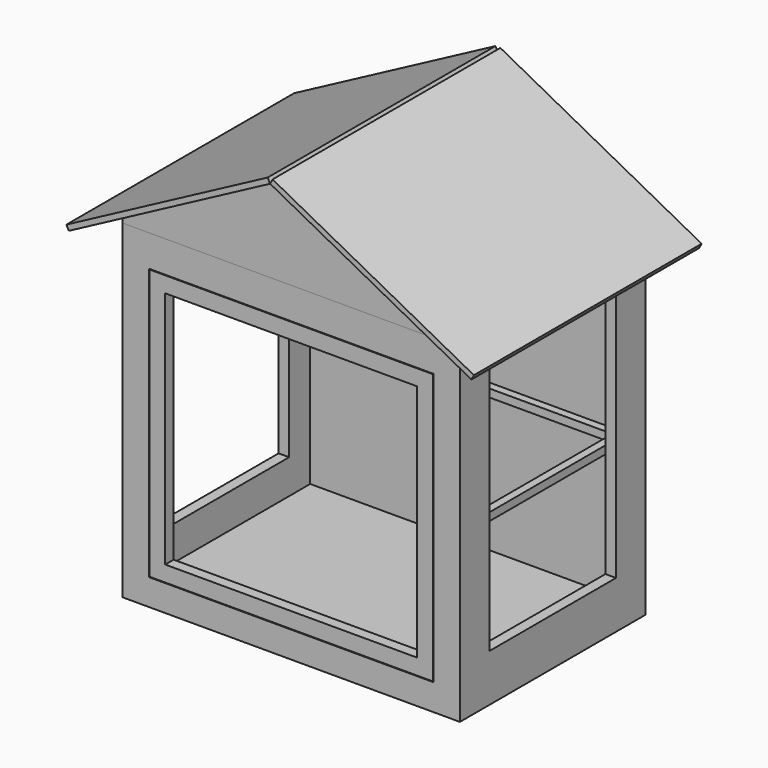
from build123d import *

# Parameters (mm, degrees)
F0_W      = 640
F0_H      = 440
F0_W_2    = 600
F0_H_2    = 400
F1_DEPTH  = 600
F2_W      = 640
F2_H      = 440
F3_DEPTH  = 20
F4_W      = 300
F4_H      = 485
F5_DEPTH  = 20
F6_W      = 540
F6_H      = 515
F7_DEPTH  = 20
F8_W      = 300
F8_H      = 485
F9_DEPTH  = 640.001
F10_W     = 640
F10_H     = 440
F11_DEPTH = 25
F13_W     = 15
F13_H     = 15
F14_DEPTH = 400
F15_W     = 415
F15_H     = 15
F16_DEPTH = 15
F18_DEPTH = 15
F20_DEPTH = 15
F21_W     = 432.3534186399
F21_H     = 540
F23_DEPTH = 10
F22_W     = 432.3534186399
F22_H     = 540
F24_DEPTH = 10
F25_W     = 538
F25_H     = 513
F25_W_2   = 478
F25_H_2   = 453
F26_DEPTH = 20


with BuildPart() as f1:
    # F0 (on Top) → F1 (new body)
    with BuildSketch(Plane.XY):
        Rectangle(F0_W, F0_H)
        Rectangle(F0_W_2, F0_H_2, mode=Mode.SUBTRACT)
    extrude(amount=F1_DEPTH)

    # F4 (on face) → F5 (cut)
    with BuildSketch(Plane.YZ.offset(320)):
        with Locations((0, 307.5)):
            Rectangle(F4_W, F4_H)
    extrude(amount=-F5_DEPTH, mode=Mode.SUBTRACT)

    # F6 (on face) → F7 (cut)
    with BuildSketch(Plane.XZ.offset(220)):
        with Locations((0, 282.5)):
            Rectangle(F6_W, F6_H)
    extrude(amount=-F7_DEPTH, mode=Mode.SUBTRACT)

    # F8 (on face) → F9 (cut, through all)
    with BuildSketch(Plane(origin=(-320, 0, 0), x_dir=(0, -1, 0), z_dir=(-1, 0, 0))):
        with Locations((0, 307.5)):
            Rectangle(F8_W, F8_H)
    extrude(amount=-F9_DEPTH, mode=Mode.SUBTRACT)

    # F10 (on face) → F11 (join)
    with BuildSketch(Plane(origin=(0, 0, 0), x_dir=(1, 0, 0), z_dir=(0, 0, -1))):
        Rectangle(F10_W, F10_H)
    extrude(amount=F11_DEPTH)

    # F13 (on face) → F14 (join, through all)
    with BuildSketch(Plane.XZ.offset(-200)):
        with Locations((292.5, 272.5)):
            Rectangle(F13_W, F13_H)
    extrude(amount=F14_DEPTH)

    # F15 (on face) → F16 (join)
    with BuildSketch(Plane.XZ.offset(-200)):
        with Locations((77.5, 272.5)):
            Rectangle(F15_W, F15_H)
    extrude(amount=F16_DEPTH)


with BuildPart() as f3:
    # F2 (on face) → F3 (new body)
    with BuildSketch(Plane.XY.offset(600)):
        Rectangle(F2_W, F2_H)
    extrude(amount=F3_DEPTH)

    # F17 (on face) → F18 (join)
    with BuildSketch(Plane.XZ.offset(220)):
        Polygon((0, 790), (-320, 620), (320, 620), align=None)
    extrude(amount=-F18_DEPTH)

    # F19 (on face) → F20 (join)
    with BuildSketch(Plane(origin=(0, 220, 0), x_dir=(-1, 0, 0), z_dir=(0, 1, 0))):
        Polygon((0, 790), (-320, 620), (320, 620), align=None)
    extrude(amount=-F20_DEPTH)


with BuildPart() as f23:
    # F21 (on face) → F23 (new body)
    with BuildSketch(Plane(origin=(-327.3115003808, 0, 616.1157654227), x_dir=(0.8831157195, 0, 0.469155226), z_dir=(-0.469155226, 0, 0.8831157195))):
        with Locations((154.4559191898, 0)):
            Rectangle(F21_W, F21_H)
    extrude(amount=F23_DEPTH)


with BuildPart() as f24:
    # F22 (on face) → F24 (new body)
    with BuildSketch(Plane(origin=(327.3115003808, 0, 616.1157654227), x_dir=(0.8831157195, 0, -0.469155226), z_dir=(0.469155226, 0, 0.8831157195))):
        with Locations((-154.4559191898, 0)):
            Rectangle(F22_W, F22_H)
    extrude(amount=F24_DEPTH)


with BuildPart() as f26:
    # F25 (on face) → F26 (new body)
    with BuildSketch(Plane.XZ.offset(220)):
        with Locations((0, 282.5)):
            Rectangle(F25_W, F25_H)
        with Locations((0, 282.5)):
            Rectangle(F25_W_2, F25_H_2, mode=Mode.SUBTRACT)
    extrude(amount=-F26_DEPTH)


solid = Compound([f1.part, f3.part, f23.part, f24.part, f26.part])
